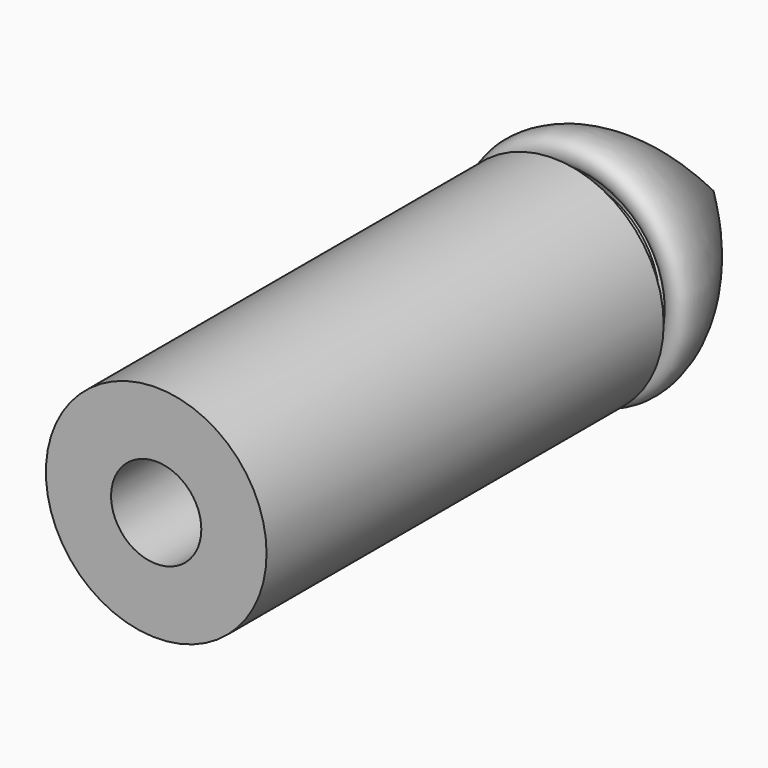
from build123d import *

# Parameters (mm, degrees)
F2_R     = 9
F3_DEPTH = 64


with BuildPart() as f1:
    # F0 (on Top) → F1 (revolve)
    with BuildSketch(Plane.XY):
        with BuildLine():
            add(Edge.make_bspline(
                [(19.2361753434, 36.76969558), (18.8333285398, 35.8557549946), (17.9746011666, 33.9075558501), (23.6675004635, 32.8948803304), (23.4119356032, 45.5381726747), (9.421456798, 60.2345390235), (0, 70.1313540339)],
                knots=[0, 0, 0, 0, 0.1286527276, 0.2742422623, 0.5112608177, 1, 1, 1, 1], degree=3))
            Line((0, 70.1313540339), (0, 61.0959008336))
            Line((0, 61.0959008336), (19.2361753434, 39.897352457))
            Line((19.2361753434, 39.897352457), (19.2361753434, 36.76969558))
        make_face()
    revolve(axis=Axis((0, -0.8392035961, 0), (0, -1, 0)))


with BuildPart() as f1b:
    # F0 (on Top) → F1, piece 2 (revolve)
    with BuildSketch(Plane.XY):
        Polygon((11.2432809547, 30.1668699831), (0, 30.1668699831), (0, -68.8755437732), (22.016312927, -68.8755437732), (22.016312927, 30.1668699831), (16.108520329, 30.1668699831), (16.108520329, 36.4221818745), (11.2432809547, 36.4221818745), align=None)
    revolve(axis=Axis((0, -0.8392035961, 0), (0, -1, 0)))

    # F2 (on face) → F3 (cut)
    with BuildSketch(Plane.XZ.offset(68.8755437732)):
        Circle(F2_R)
    extrude(amount=-F3_DEPTH, mode=Mode.SUBTRACT)


solid = Compound([f1.part, f1b.part])
